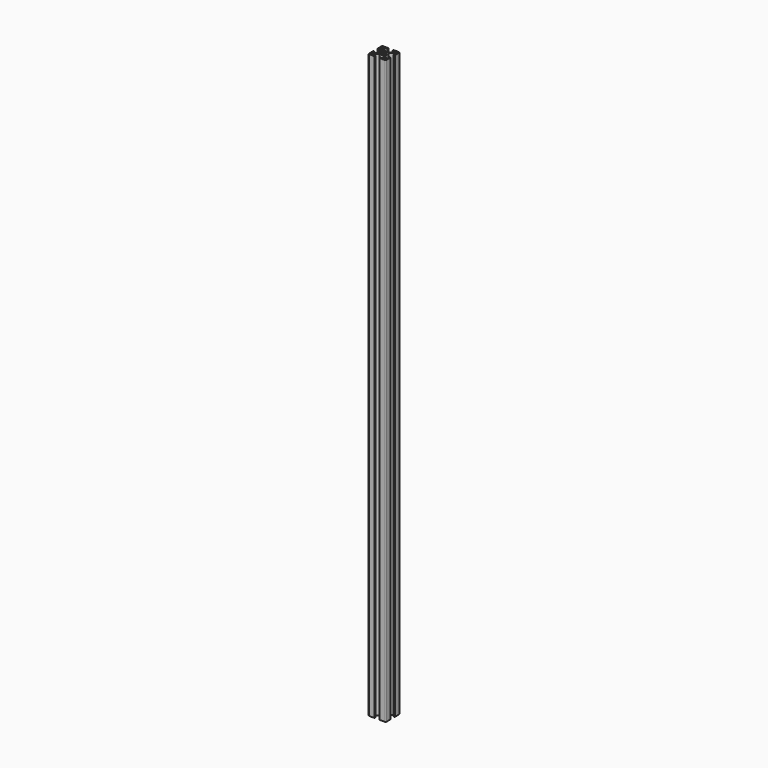
from build123d import *

# Parameters (mm, degrees)
F0_W     = 3
F0_H     = 3
F1_DEPTH = 1000
F2_R     = 1.5
F3_SIZE  = 0.6


with BuildPart() as f1:
    # F0 (on Top) → F1 (new body)
    with BuildSketch(Plane.XY):
        with BuildLine():
            Line((-4.1, 15), (-15, 15))
            Line((-15, 15), (-15, 4.1))
            Line((-15, 4.1), (-12.8, 4.1))
            Line((-12.8, 4.1), (-12.8, 9))
            Line((-12.8, 9), (-10.555635, 9))
            Line((-10.555635, 9), (-4.948549, 3.392914))
            ThreePointArc((-4.948549, 3.392914), (-6, 0), (-4.948549, -3.392914))
            Line((-4.948549, -3.392914), (-10.555635, -9))
            Line((-10.555635, -9), (-12.8, -9))
            Line((-12.8, -9), (-12.8, -4.1))
            Line((-12.8, -4.1), (-15, -4.1))
            Line((-15, -4.1), (-15, -15))
            Line((-15, -15), (-4.1, -15))
            Line((-4.1, -15), (-4.1, -12.8))
            Line((-4.1, -12.8), (-9, -12.8))
            Line((-9, -12.8), (-9, -10.555635))
            Line((-9, -10.555635), (-3.392914, -4.948549))
            ThreePointArc((-3.392914, -4.948549), (0, -6), (3.392914, -4.948549))
            Line((3.392914, -4.948549), (9, -10.555635))
            Line((9, -10.555635), (9, -12.8))
            Line((9, -12.8), (4.1, -12.8))
            Line((4.1, -12.8), (4.1, -15))
            Line((4.1, -15), (15, -15))
            Line((15, -15), (15, -4.1))
            Line((15, -4.1), (13.5, -4.1))
            Line((13.5, -4.1), (12.8, -4.1))
            Line((12.8, -4.1), (12.8, -9))
            Line((12.8, -9), (10.555635, -9))
            Line((10.555635, -9), (4.948549, -3.392914))
            ThreePointArc((4.948549, -3.392914), (6, 0), (4.948549, 3.392914))
            Line((4.948549, 3.392914), (10.555635, 9))
            Line((10.555635, 9), (12.8, 9))
            Line((12.8, 9), (12.8, 4.1))
            Line((12.8, 4.1), (13.5, 4.1))
            Line((13.5, 4.1), (15, 4.1))
            Line((15, 4.1), (15, 15))
            Line((15, 15), (4.1, 15))
            Line((4.1, 15), (4.1, 12.8))
            Line((4.1, 12.8), (9, 12.8))
            Line((9, 12.8), (9, 10.555635))
            Line((9, 10.555635), (3.392914, 4.948549))
            ThreePointArc((3.392914, 4.948549), (0, 6), (-3.392914, 4.948549))
            Line((-3.392914, 4.948549), (-9, 10.555635))
            Line((-9, 10.555635), (-9, 12.8))
            Line((-9, 12.8), (-4.1, 12.8))
            Line((-4.1, 12.8), (-4.1, 15))
        make_face()
        with Locations((-12, -12)):
            Rectangle(F0_W, F0_H, mode=Mode.SUBTRACT)
        with Locations((12, -12)):
            Rectangle(F0_W, F0_H, mode=Mode.SUBTRACT)
        with Locations((-12, 12)):
            Rectangle(F0_W, F0_H, mode=Mode.SUBTRACT)
        with BuildLine():
            ThreePointArc((2.94533, 1.890775), (3.358471, 0.985227), (3.5, 0))
            ThreePointArc((3.5, 0), (3.358471, -0.985227), (2.94533, -1.890775))
            ThreePointArc((2.94533, -1.890775), (3.223794, -2.434637), (3.005204, -3.005204))
            ThreePointArc((3.005204, -3.005204), (2.434637, -3.223794), (1.890775, -2.94533))
            ThreePointArc((1.890775, -2.94533), (0, -3.5), (-1.890775, -2.94533))
            ThreePointArc((-1.890775, -2.94533), (-2.434637, -3.223794), (-3.005204, -3.005204))
            ThreePointArc((-3.005204, -3.005204), (-3.223794, -2.434637), (-2.94533, -1.890775))
            ThreePointArc((-2.94533, -1.890775), (-3.5, 0), (-2.94533, 1.890775))
            ThreePointArc((-2.94533, 1.890775), (-3.223794, 2.434637), (-3.005204, 3.005204))
            ThreePointArc((-3.005204, 3.005204), (-2.434637, 3.223794), (-1.890775, 2.94533))
            ThreePointArc((-1.890775, 2.94533), (0, 3.5), (1.890775, 2.94533))
            ThreePointArc((1.890775, 2.94533), (2.434637, 3.223794), (3.005204, 3.005204))
            ThreePointArc((3.005204, 3.005204), (3.223794, 2.434637), (2.94533, 1.890775))
        make_face(mode=Mode.SUBTRACT)
        with Locations((12, 12)):
            Rectangle(F0_W, F0_H, mode=Mode.SUBTRACT)
    extrude(amount=F1_DEPTH)

    # F2
    f2_edges = [f1.edges().sort_by_distance(p)[0] for p in [
        (15, 15, 500),
        (-15, 15, 500),
        (15, -15, 500),
        (-15, -15, 500),
    ]]
    fillet(f2_edges, radius=F2_R)

    # F3
    f3_edges = [f1.edges().sort_by_distance(p)[0] for p in [
        (-4.1, 15, 500),
        (4.1, 15, 500),
        (15, 4.1, 500),
        (15, -4.1, 500),
        (-15, 4.1, 500),
        (-15, -4.1, 500),
        (4.1, -15, 500),
        (-4.1, -15, 500),
    ]]
    chamfer(f3_edges, length=F3_SIZE)


solid = f1.part
